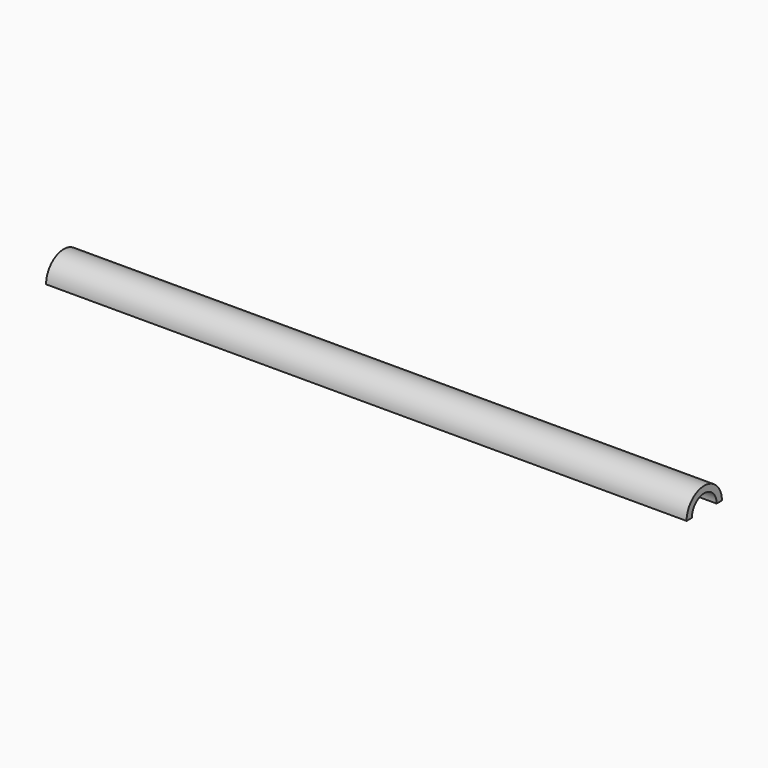
from build123d import *

# Parameters (mm, degrees)
F1_DEPTH = 145
F3_DEPTH = 145.001


with BuildPart() as f1:
    # F0 (on Right) → F1 (new body)
    with BuildSketch(Plane.YZ):
        with BuildLine():
            Line((-5, 0), (5, 0))
            ThreePointArc((5, 0), (0, 5), (-5, 0))
        make_face()
    extrude(amount=-F1_DEPTH)

    # F2 (on face) → F3 (cut, through all)
    with BuildSketch(Plane(origin=(-145, 0, 0), x_dir=(0, -1, 0), z_dir=(-1, 0, 0))):
        with BuildLine():
            Line((-3.5, 0), (3.5, 0))
            ThreePointArc((3.5, 0), (0, 3.5), (-3.5, 0))
        make_face()
    extrude(amount=-F3_DEPTH, mode=Mode.SUBTRACT)


solid = f1.part
